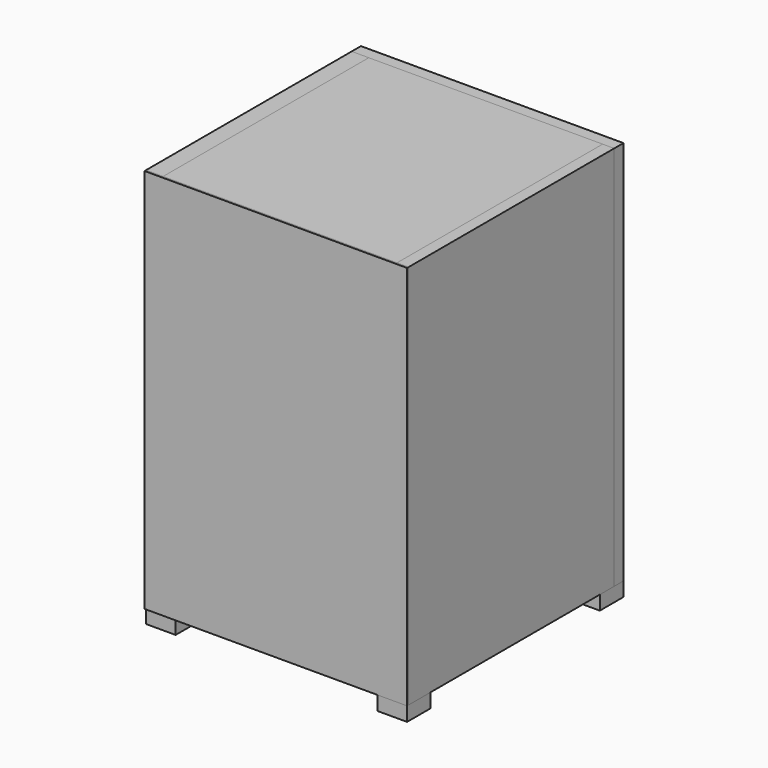
from build123d import *

# Parameters (mm, degrees)
F0_W      = 204.298
F0_H      = 300
F1_DEPTH  = 1.5
F2_W      = 13.2981073111
F2_H      = 300
F3_DEPTH  = 200
F5_DEPTH  = 12
F7_DEPTH  = 182
F8_W      = 25.7398411632
F8_H      = 9.9793898548
F9_DEPTH  = 5
F10_W     = 200
F10_H     = 9
F11_DEPTH = 182
F12_W     = 200
F12_H     = 9
F13_DEPTH = 182
F14_W     = 200
F14_H     = 300
F15_DEPTH = 9
F16_W     = 204.2981073111
F16_H     = 300
F17_DEPTH = 9
F18_R     = 35.1528640542
F19_DEPTH = 9
F20_DEPTH = 25
F21_W     = 23
F21_H     = 23
F22_DEPTH = 11
F23_W     = 23
F23_H     = 23
F24_DEPTH = 11
F25_W     = 23
F25_H     = 23
F26_DEPTH = 11
F27_W     = 23
F27_H     = 23
F28_DEPTH = 11


with BuildPart() as f1:
    # F0 (on Front) → F1 (new body)
    with BuildSketch(Plane.XZ):
        with Locations((102.149, 150)):
            Rectangle(F0_W, F0_H)
    extrude(amount=F1_DEPTH)

    # F18 (on face) → F20 (cut)
    with BuildSketch(Plane(origin=(0, 209, 0), x_dir=(-1, 0, 0), z_dir=(0, 1, 0))):
        with Locations((-137.7060115337, 70.2037215233)):
            Circle(F18_R)
    extrude(amount=-F20_DEPTH, mode=Mode.SUBTRACT)


with BuildPart() as f3:
    # F2 (on face) → F3 (new body)
    with BuildSketch(Plane(origin=(0, 0, 0), x_dir=(-1, 0, 0), z_dir=(0, 1, 0))):
        with Locations((-6.6490536556, 150)):
            Rectangle(F2_W, F2_H)
    extrude(amount=F3_DEPTH)


with BuildPart() as f5:
    # F4 (on face) → F5 (new body)
    with BuildSketch(Plane.YZ.offset(13.2981073111)):
        Polygon((18.4408109635, 97.4271222949), (0, 119.2248314619), (0, 83.049915731), align=None)
    extrude(amount=F5_DEPTH)


with BuildPart() as f7:
    # F6 (on face) → F7 (new body)
    with BuildSketch(Plane.YZ.offset(13.2981073111)):
        Polygon((0, 119.2248314619), (18.4408109635, 97.4271222949), (23.4669872274, 101.6792556563), (5.0261762638, 123.4769648233), align=None)
    extrude(amount=F7_DEPTH)


with BuildPart() as f9:
    # F8 (on face) → F9 (new body)
    with BuildSketch(Plane(origin=(0, 63.8145545289, 53.9869638489), x_dir=(-1, 0, 0), z_dir=(0, 0.7634450794, 0.6458727512))):
        with Locations((-102.3391224444, 67.4595347302)):
            Rectangle(F8_W, F8_H)
    extrude(amount=F9_DEPTH)


with BuildPart() as f11:
    # F10 (on face) → F11 (new body)
    with BuildSketch(Plane.YZ.offset(13.2981073111)):
        with Locations((100, 295.5)):
            Rectangle(F10_W, F10_H)
    extrude(amount=F11_DEPTH)


with BuildPart() as f13:
    # F12 (on face) → F13 (new body)
    with BuildSketch(Plane.YZ.offset(13.2981073111)):
        with Locations((100, 4.5)):
            Rectangle(F12_W, F12_H)
    extrude(amount=F13_DEPTH)


with BuildPart() as f15:
    # F14 (on face) → F15 (new body)
    with BuildSketch(Plane.YZ.offset(195.2981073111)):
        with Locations((100, 150)):
            Rectangle(F14_W, F14_H)
    extrude(amount=F15_DEPTH)


with BuildPart() as f17:
    # F16 (on face) → F17 (new body)
    with BuildSketch(Plane(origin=(0, 200, 0), x_dir=(-1, 0, 0), z_dir=(0, 1, 0))):
        with Locations((-102.1490536556, 150)):
            Rectangle(F16_W, F16_H)
    extrude(amount=F17_DEPTH)

    # F18 (on face) → F19 (cut)
    with BuildSketch(Plane(origin=(0, 209, 0), x_dir=(-1, 0, 0), z_dir=(0, 1, 0))):
        with Locations((-137.7060115337, 70.2037215233)):
            Circle(F18_R)
    extrude(amount=-F19_DEPTH, mode=Mode.SUBTRACT)


with BuildPart() as f22:
    # F21 (on face) → F22 (new body)
    with BuildSketch(Plane(origin=(0, 0, 0), x_dir=(1, 0, 0), z_dir=(0, 0, -1))):
        with Locations((192.7981073111, -197.5)):
            Rectangle(F21_W, F21_H)
    extrude(amount=F22_DEPTH)


with BuildPart() as f24:
    # F23 (on face) → F24 (new body)
    with BuildSketch(Plane(origin=(0, 0, 0), x_dir=(1, 0, 0), z_dir=(0, 0, -1))):
        with Locations((11.5, -197.3994979858)):
            Rectangle(F23_W, F23_H)
    extrude(amount=F24_DEPTH)


with BuildPart() as f26:
    # F25 (on face) → F26 (new body)
    with BuildSketch(Plane(origin=(0, 0, 0), x_dir=(1, 0, 0), z_dir=(0, 0, -1))):
        with Locations((11.5, -11.5)):
            Rectangle(F25_W, F25_H)
    extrude(amount=F26_DEPTH)


with BuildPart() as f28:
    # F27 (on face) → F28 (new body)
    with BuildSketch(Plane(origin=(0, 0, 0), x_dir=(1, 0, 0), z_dir=(0, 0, -1))):
        with Locations((192.798, -10)):
            Rectangle(F27_W, F27_H)
    extrude(amount=F28_DEPTH)


solid = Compound([f1.part, f3.part, f5.part, f7.part, f9.part, f11.part, f13.part, f15.part, f17.part, f22.part, f24.part, f26.part, f28.part])
